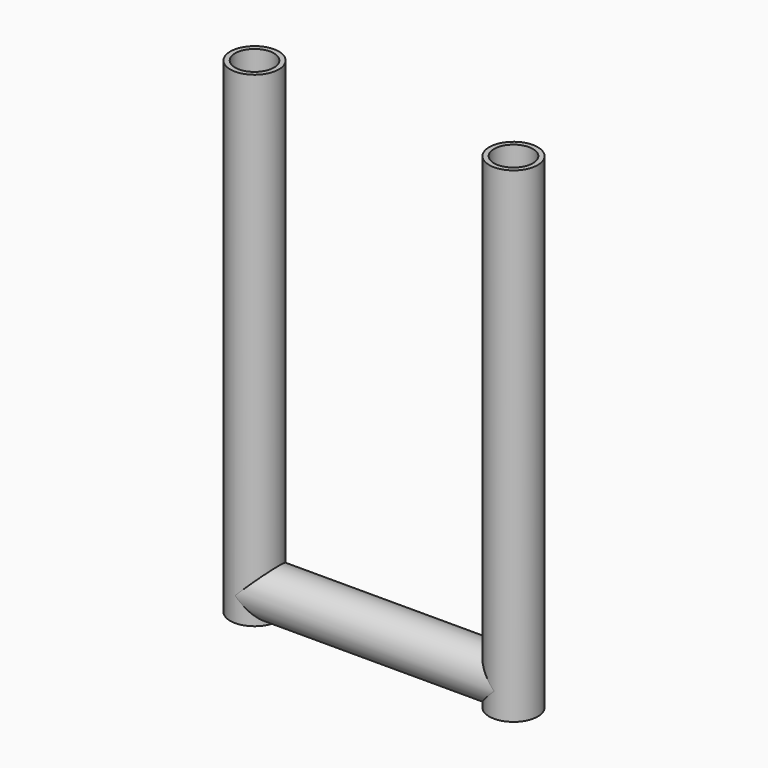
from build123d import *

# Parameters (mm, degrees)
F0_R      = 7.5
F1_DEPTH  = 150
F2_R      = 6
F3_DEPTH  = 300
F4_R      = 7.5
F5_DEPTH  = 80
F6_R      = 6
F7_DEPTH  = 80
F8_R      = 7.5
F9_DEPTH  = 150
F10_R     = 6
F11_DEPTH = 300
F12_R     = 6
F13_DEPTH = 300


with BuildPart() as f1:
    # F0 (on Top) → F1 (new body)
    with BuildSketch(Plane.XY):
        Circle(F0_R)
    extrude(amount=F1_DEPTH)

    # F2 (on face) → F3 (cut)
    with BuildSketch(Plane.XY):
        Circle(F2_R)
    extrude(amount=-F3_DEPTH, mode=Mode.SUBTRACT)

    # F4 (on Right) → F5 (join)
    with BuildSketch(Plane.YZ):
        with Locations((0, 7.5)):
            Circle(F4_R)
    extrude(amount=F5_DEPTH)

    # F6 (on face) → F7 (cut)
    with BuildSketch(Plane.YZ.offset(80)):
        with Locations((0, 7.5)):
            Circle(F6_R)
    extrude(amount=-F7_DEPTH, mode=Mode.SUBTRACT)

    # F8 (on Top) → F9 (join)
    with BuildSketch(Plane.XY):
        with Locations((80, 0)):
            Circle(F8_R)
    extrude(amount=F9_DEPTH)

    # F10 (on face) → F11 (cut)
    with BuildSketch(Plane.XY.offset(150)):
        with Locations((80, 0)):
            Circle(F10_R)
    extrude(amount=-F11_DEPTH, mode=Mode.SUBTRACT)

    # F12 (on Top) → F13 (cut)
    with BuildSketch(Plane.XY):
        Circle(F12_R)
    extrude(amount=F13_DEPTH, mode=Mode.SUBTRACT)


solid = f1.part
